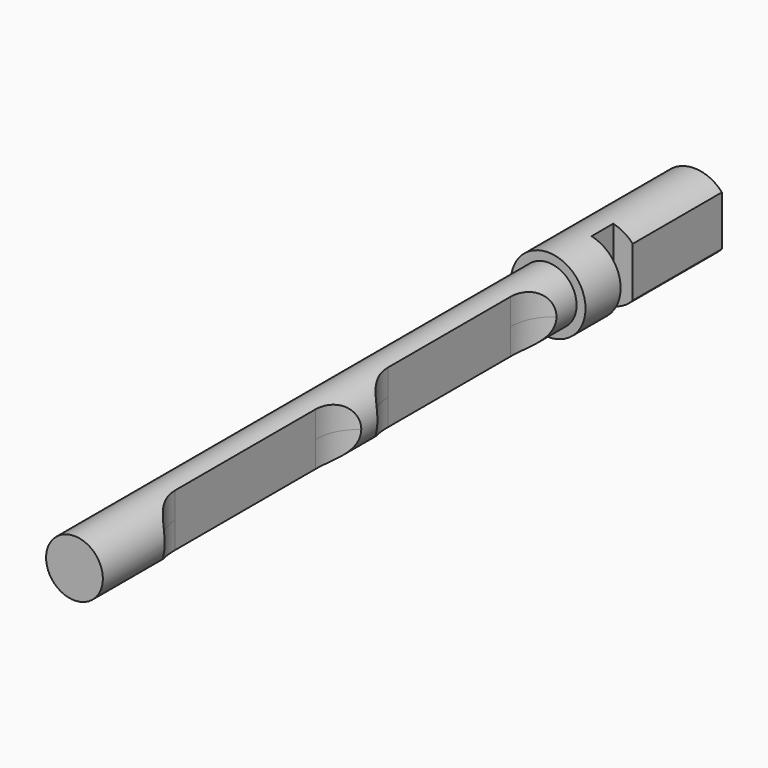
from build123d import *

# Parameters (mm, degrees)
F0_R      = 3.4544
F1_DEPTH  = 71.7721196
F3_W      = 4.8468357233
F3_H      = 2.5146
F4_DEPTH  = 39.878
F5_W      = 2.9651967107
F5_H      = 11.1958960486
F6_DEPTH  = 56.642
F8_R      = 3.4544
F8_R_2    = 2.6289
F9_DEPTH  = 58.42
F11_DEPTH = 25.4
F13_DEPTH = 25.4
F15_DEPTH = 25.4


with BuildPart() as f1:
    # F0 (on Front) → F1 (new body)
    with BuildSketch(Plane.XZ):
        Circle(F0_R)
    extrude(amount=F1_DEPTH)

    # F3 (on offset) → F4 (cut)
    with BuildSketch(Plane.XY.offset(25.4)):
        with Locations((3.1854178616, -11.5868196)):
            Rectangle(F3_W, F3_H)
    extrude(amount=-F4_DEPTH, mode=Mode.SUBTRACT)

    # F5 (on offset) → F6 (cut)
    with BuildSketch(Plane.XY.offset(25.4)):
        with Locations((4.0479983554, -5.5979480243)):
            Rectangle(F5_W, F5_H)
    extrude(amount=-F6_DEPTH, mode=Mode.SUBTRACT)

    # F8 (on offset) → F9 (cut)
    with BuildSketch(Plane(origin=(0, -16.9081196, 0), x_dir=(-1, 0, 0), z_dir=(0, 1, 0))):
        Circle(F8_R)
        Circle(F8_R_2, mode=Mode.SUBTRACT)
    extrude(amount=-F9_DEPTH, mode=Mode.SUBTRACT)

    # F10 (on Top) → F11 (cut)
    with BuildSketch(Plane.XY):
        with BuildLine():
            ThreePointArc((5.0546, -41.0381196), (2.1809180413, -42.2284376413), (0.9906, -45.1021196))
            Line((0.9906, -45.1021196), (0.9906, -61.3581196))
            ThreePointArc((0.9906, -61.3581196), (2.1809180413, -64.2318015587), (5.0546, -65.4221196))
            Line((5.0546, -65.4221196), (5.0546, -41.0381196))
        make_face()
        with BuildLine():
            Line((5.0546, -40.7841196), (5.0546, -18.4321196))
            ThreePointArc((5.0546, -18.4321196), (2.1809180413, -19.6224376413), (0.9906, -22.4961196))
            Line((0.9906, -22.4961196), (0.9906, -36.7201196))
            ThreePointArc((0.9906, -36.7201196), (2.1809180413, -39.5938015587), (5.0546, -40.7841196))
        make_face()
    extrude(amount=F11_DEPTH, mode=Mode.SUBTRACT)

    # F12 (on face) → F13 (cut)
    with BuildSketch(Plane.XY):
        with BuildLine():
            ThreePointArc((2.6289, -41.8414332443), (1.4231993887, -43.2775578444), (0.9906, -45.1021196))
            Line((0.9906, -45.1021196), (0.9906, -61.3581196))
            ThreePointArc((0.9906, -61.3581196), (1.4231993887, -63.1826813556), (2.6289, -64.6188059557))
            Line((2.6289, -64.6188059557), (2.6289, -41.8414332443))
        make_face()
    extrude(amount=-F13_DEPTH, mode=Mode.SUBTRACT)

    # F14 (on face) → F15 (cut)
    with BuildSketch(Plane.XY):
        with BuildLine():
            ThreePointArc((2.6289, -19.2354332443), (1.4231993887, -20.6715578444), (0.9906, -22.4961196))
            Line((0.9906, -22.4961196), (0.9906, -36.7201196))
            ThreePointArc((0.9906, -36.7201196), (1.4231993887, -38.5446813556), (2.6289, -39.9808059557))
            Line((2.6289, -39.9808059557), (2.6289, -19.2354332443))
        make_face()
    extrude(amount=-F15_DEPTH, mode=Mode.SUBTRACT)


solid = f1.part
